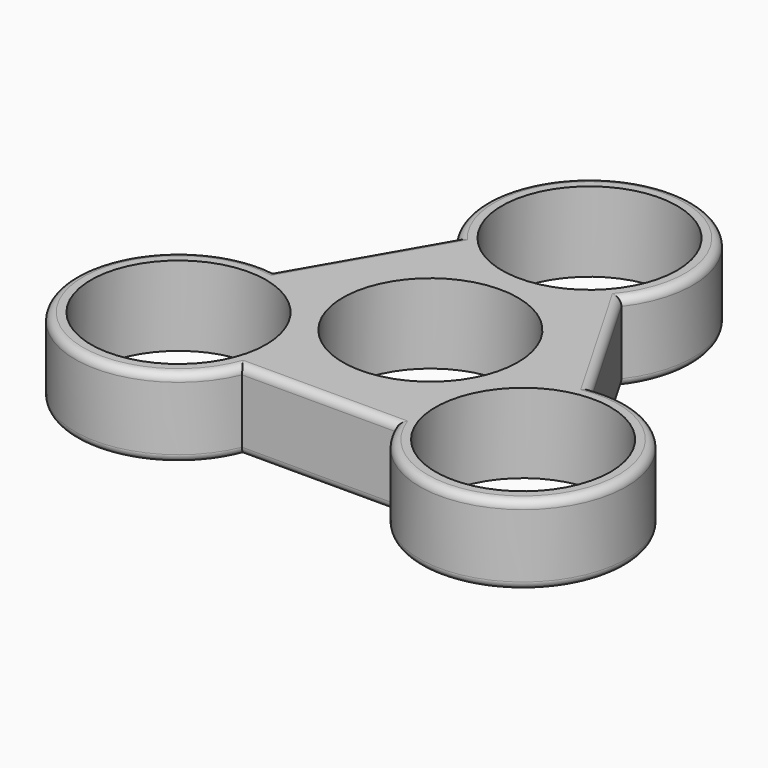
from build123d import *

# Parameters (mm, degrees)
F0_R     = 11
F1_DEPTH = 10
F2_R     = 1


with BuildPart() as f1:
    # F0 (on Top) → F1 (new body)
    with BuildSketch(Plane.XY):
        with BuildLine():
            Line((19.980762, 0.392305), (10.330127, 17.107695))
            ThreePointArc((10.330127, 17.107695), (0, 38), (-10.330127, 17.107695))
            Line((-10.330127, 17.107695), (-19.980762, 0.392305))
            ThreePointArc((-19.980762, 0.392305), (-32.908965, -19), (-9.650635, -17.5))
            Line((-9.650635, -17.5), (9.650635, -17.5))
            ThreePointArc((9.650635, -17.5), (32.908965, -19), (19.980762, 0.392305))
        make_face()
        with Locations((-21.650635, -12.5)):
            Circle(F0_R, mode=Mode.SUBTRACT)
        with Locations((21.650635, -12.5)):
            Circle(F0_R, mode=Mode.SUBTRACT)
        Circle(F0_R, mode=Mode.SUBTRACT)
        with Locations((0, 25)):
            Circle(F0_R, mode=Mode.SUBTRACT)
    extrude(amount=F1_DEPTH)

    # F2
    f2_edges = [f1.edges().sort_by_distance(p)[0] for p in [
        (-32.908965, -19, 10),
        (0, -17.5, 10),
        (32.908965, -19, 10),
        (15.155445, 8.75, 10),
        (0, 38, 10),
        (-15.155445, 8.75, 10),
        (15.155445, 8.75, 0),
        (32.908965, -19, 0),
        (0, -17.5, 0),
        (-32.908965, -19, 0),
        (-15.155445, 8.75, 0),
        (0, 38, 0),
    ]]
    fillet(f2_edges, radius=F2_R)


solid = f1.part
